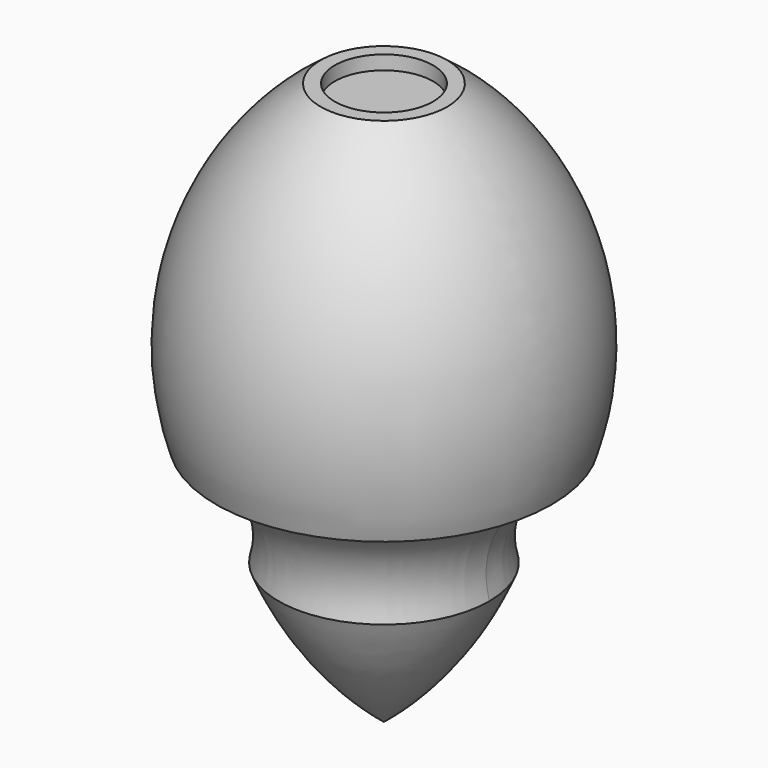
from build123d import *

# Parameters (mm, degrees)
F3_DEPTH = 1


with BuildPart() as f1:
    # F0 (on Front) → F1 (revolve)
    with BuildSketch(Plane.XZ):
        with BuildLine():
            Line((0, 78), (0, 35))
            Line((0, 35), (23.878137, 35))
            ThreePointArc((23.878137, 35), (23.821651, 59.940868), (9, 80))
            Line((9, 80), (7, 80))
            Line((7, 80), (7, 78))
            Line((7, 78), (0, 78))
        make_face()
        with BuildLine():
            Line((0, 35), (0, 20))
            Line((0, 20), (15, 20))
            ThreePointArc((15, 20), (16.211031, 29.410597), (23.878137, 35))
            Line((23.878137, 35), (0, 35))
        make_face()
        with BuildLine():
            Line((0, 20), (0, 0))
            ThreePointArc((0, 0), (8.770167, 9.047375), (15, 20))
            Line((15, 20), (0, 20))
        make_face()
    revolve(axis=Axis((0, 0, 40), (0, 0, 1)))

    # F2 (on Front) → F3 (join, symmetric)
    with BuildSketch(Plane.XZ):
        Polygon((0, 20), (0, 35), (-23.878137, 35), (-15, 20), align=None)
    extrude(amount=F3_DEPTH, both=True)


solid = f1.part
